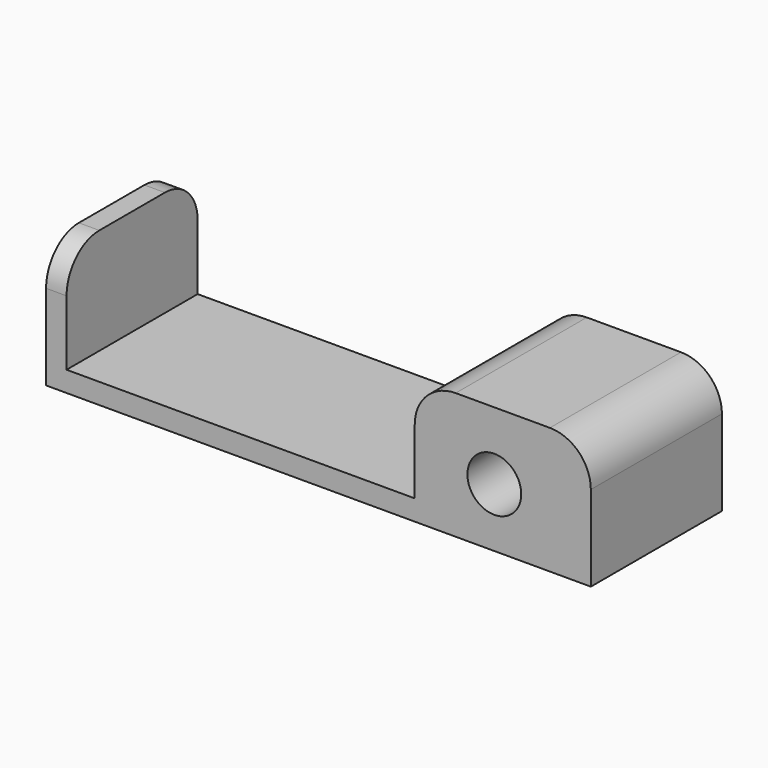
from build123d import *

# Parameters (mm, degrees)
F0_R     = 6.570466
F1_DEPTH = 20
F2_R     = 10
F3_R     = 10


with BuildPart() as f1:
    # F0 (on Front) → F1 (new body, symmetric)
    with BuildSketch(Plane.XZ):
        Polygon((-52.715916, 30.87929), (-52.715916, 0), (37.284084, 0), (37.284084, 5), (-47.715916, 5), (-47.715916, 30.87929), align=None)
        with BuildLine():
            Line((37.284084, 5), (37.284084, 0))
            Line((37.284084, 0), (80.273889, 0))
            Line((80.273889, 0), (80.273889, 20.87929))
            ThreePointArc((80.273889, 20.87929), (77.344957, 27.950358), (70.273889, 30.87929))
            Line((70.273889, 30.87929), (47.284084, 30.87929))
            ThreePointArc((47.284084, 30.87929), (40.213016, 27.950358), (37.284084, 20.87929))
            Line((37.284084, 20.87929), (37.284084, 5))
        make_face()
        with Locations((56.709491, 14.344878)):
            Circle(F0_R, mode=Mode.SUBTRACT)
    extrude(amount=F1_DEPTH, both=True)

    # F2
    f2_edges = [f1.edges().sort_by_distance(p)[0] for p in [
        (-50.215916, 20, 30.87929),
    ]]
    fillet(f2_edges, radius=F2_R)

    # F3
    f3_edges = [f1.edges().sort_by_distance(p)[0] for p in [
        (-50.215916, -20, 30.87929),
    ]]
    fillet(f3_edges, radius=F3_R)


solid = f1.part
